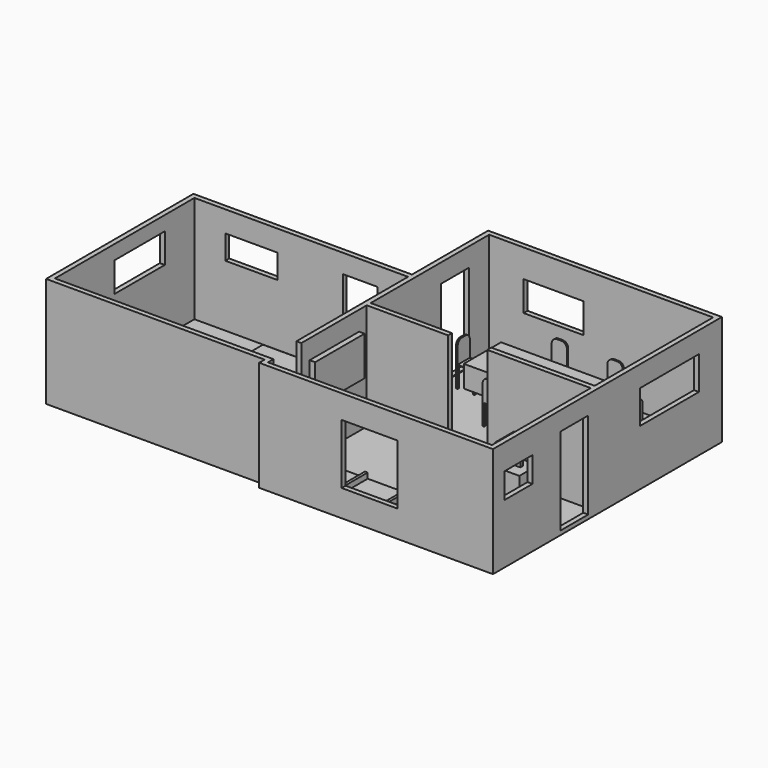
from build123d import *

# Parameters (mm, degrees)
F1_DEPTH  = 2489.2
F2_W      = 812.8
F2_H      = 2032
F3_DEPTH  = 1270
F4_W      = 812.8
F4_H      = 2032
F4_W_2    = 1213.4804725647
F4_H_2    = 561.7965459824
F5_DEPTH  = 508
F6_W      = 1393.2554125786
F6_H      = 696.6277360916
F7_DEPTH  = 508
F9_W      = 1462.075650692
F9_H      = 690.8190250397
F10_DEPTH = 381
F8_W      = 812.8
F8_H      = 2032
F8_W_2    = 818.5732364655
F8_H_2    = 591.4545059204
F12_DEPTH = 381
F13_DEPTH = 76.2
F14_W     = 622.6482391357
F14_H     = 1667.7387952805
F14_W_2   = 2921
F14_H_2   = 2032
F15_DEPTH = 381
F16_W     = 372.4322319031
F16_H     = 1191.0808086395
F17_DEPTH = 508
F18_W     = 468.5404043198
F18_H     = 132.683795929
F19_DEPTH = 398.78
F20_W     = 1713.0353748798
F20_H     = 776.2191295624
F21_DEPTH = 508
F22_W     = 1294.9361463044
F22_H     = 1397
F23_DEPTH = 254
F24_W     = 1441.2899017334
F24_H     = 915.3870344162
F25_DEPTH = 127
F26_W     = 3355.4488420486
F26_H     = 714.443203545
F27_DEPTH = 508
F28_W     = 1200.5072784424
F28_H     = 714.443203545
F28_W_2   = 961.6249372959
F28_W_3   = 558.3166263103
F29_DEPTH = 127
F30_W     = 678.846018219
F30_H     = 1569.9999300007
F31_DEPTH = 508
F32_W     = 678.846018219
F32_H     = 654.4110774994
F32_H_2   = 484.405040741
F33_DEPTH = 127
F34_W     = 559.0155124664
F34_H     = 542.2170602794
F35_DEPTH = 508
F36_W     = 160.4032516479
F36_H     = 79.8953551295
F37_DEPTH = 381
F38_W     = 559.0155124664
F38_H     = 542.2170602794
F39_DEPTH = 127
F40_W     = 385.6000900269
F40_H     = 323.2691287994
F41_DEPTH = 304.8
F42_W     = 3097.2655415535
F42_H     = 1085.2691287994
F42_W_2   = 385.6000900269
F42_H_2   = 323.2691287994
F43_DEPTH = 508
F44_W     = 385.6000900269
F44_H     = 323.2691287994
F45_DEPTH = 685.8
F46_W     = 38.1
F46_H     = 38.1
F47_DEPTH = 482.6
F48_W     = 38.1
F48_H     = 38.1
F49_DEPTH = 12.7
F50_W     = 355.6
F50_H     = 38.1
F51_DEPTH = 508
F52_R     = 127
F53_W     = 38.1
F53_H     = 38.1
F54_DEPTH = 482.6
F55_W     = 38.1
F55_H     = 38.1
F56_DEPTH = 12.7
F57_W     = 355.6
F57_H     = 38.1
F58_DEPTH = 508
F59_R     = 127
F60_W     = 38.1
F60_H     = 38.1
F61_DEPTH = 482.6
F62_W     = 38.1
F62_H     = 38.1
F63_DEPTH = 12.7
F64_W     = 355.6
F64_H     = 38.1
F65_DEPTH = 508
F66_R     = 127
F67_W     = 38.1
F67_H     = 38.1
F68_DEPTH = 482.6
F69_W     = 38.1
F69_H     = 38.1
F70_DEPTH = 12.7
F71_W     = 355.6
F71_H     = 38.1
F72_DEPTH = 508
F73_R     = 127
F74_W     = 38.1
F74_H     = 38.1
F75_DEPTH = 482.6
F76_W     = 38.1
F76_H     = 38.1
F77_DEPTH = 12.7
F78_W     = 38.1
F78_H     = 355.6
F79_DEPTH = 508
F80_R     = 127
F81_W     = 38.1
F81_H     = 38.1
F82_DEPTH = 482.6
F83_W     = 38.1
F83_H     = 38.1
F84_DEPTH = 12.7
F85_W     = 38.1
F85_H     = 355.6
F86_DEPTH = 508
F87_R     = 127
F88_W     = 1922.5920604706
F88_H     = 1101.1958122253
F88_H_2   = 973.3300209045
F89_DEPTH = 127
F90_W     = 1922.5920604706
F90_H     = 263.1766796112
F91_DEPTH = 88.9
F92_W     = 607.4527667999
F92_H     = 1198.7114548683
F92_W_2   = 692.7967071533
F93_DEPTH = 50.8
F94_DEPTH = 25.4


with BuildPart() as f1:
    # F0 (on Top) → F1 (new body)
    with BuildSketch(Plane.XY):
        Polygon((-1390.3417633057, 2667.4773847759), (-1504.6417633057, 2667.4773847759), (-1504.6417633057, 449.9281414032), (-1618.9417633057, 449.9281414032), (-6597.3417633057, 449.9281414032), (-6597.3417633057, -3842.6718585968), (-1504.6417633057, -3842.6718585968), (-1504.6417633057, -4001.8768152241), (-1390.3417633057, -4001.8768152241), (3943.6582366943, -4001.8768152241), (3943.6582366943, -3887.5768152241), (3943.6582366943, 2667.4773847759), align=None)
        Polygon((-1618.9417633057, 335.6281414032), (-1504.6417633057, 335.6281414032), (-1504.6417633057, -2915.5718585968), (-1390.3417633057, -2915.5718585968), (-1390.3417633057, -1011.0268152241), (505.2875056046, -1011.0268152241), (505.2875056046, -896.7268152241), (-1390.3417633057, -896.7268152241), (-1390.3417633057, 335.6281414032), (-1390.3417633057, 2553.1773847759), (3829.3582366943, 2553.1773847759), (3829.3582366943, -896.7268152241), (1418.6207056046, -896.7268152241), (1418.6207056046, -1011.0268152241), (3829.3582366943, -1011.0268152241), (3829.3582366943, -3887.5768152241), (-1390.3417633057, -3887.5768152241), (-1390.3417633057, -3842.6718585968), (-1390.3417633057, -3728.3718585968), (-6483.0417633057, -3728.3718585968), (-6483.0417633057, 335.6281414032), (-1886.7375156403, 335.6281414032), align=None, mode=Mode.SUBTRACT)
    extrude(amount=F1_DEPTH)

    # F2 (on face) → F3 (cut)
    with BuildSketch(Plane(origin=(-1504.6417633057, 0, 0), x_dir=(0, -1, 0), z_dir=(-1, 0, 0))):
        with Locations((-1558.7027630895, 1035.05)):
            Rectangle(F2_W, F2_H)
    extrude(amount=-F3_DEPTH, mode=Mode.SUBTRACT)

    # F4 (on face) → F5 (cut)
    with BuildSketch(Plane(origin=(0, 449.9281414032, 0), x_dir=(-1, 0, 0), z_dir=(0, 1, 0))):
        with Locations((2619.7667469025, 1035.05)):
            Rectangle(F4_W, F4_H)
        with Locations((5157.1805477142, 1714.798271656)):
            Rectangle(F4_W_2, F4_H_2)
    extrude(amount=-F5_DEPTH, mode=Mode.SUBTRACT)

    # F6 (on face) → F7 (cut)
    with BuildSketch(Plane(origin=(0, 2667.4773847759, 0), x_dir=(-1, 0, 0), z_dir=(0, 1, 0))):
        with Locations((-108.7255179882, 1491.143643856)):
            Rectangle(F6_W, F6_H)
    extrude(amount=-F7_DEPTH, mode=Mode.SUBTRACT)

    # F9 (on face) → F10 (cut)
    with BuildSketch(Plane(origin=(-6597.3417633057, 0, 0), x_dir=(0, -1, 0), z_dir=(-1, 0, 0))):
        with Locations((1258.6542665958, 1809.7838163376)):
            Rectangle(F9_W, F9_H)
    extrude(amount=-F10_DEPTH, mode=Mode.SUBTRACT)

    # F8 (on face) → F12 (cut)
    with BuildSketch(Plane.YZ.offset(3943.6582366943)):
        with Locations((-1635.3401790619, 1035.05)):
            Rectangle(F8_W, F8_H)
        with Locations((-3260.1364850998, 1603.9574146271)):
            Rectangle(F8_W_2, F8_H_2)
    extrude(amount=-F12_DEPTH, mode=Mode.SUBTRACT)

    # F11 (on face) → F13 (join)
    with BuildSketch(Plane(origin=(0, 0, 0), x_dir=(1, 0, 0), z_dir=(0, 0, -1))):
        Polygon((-1504.6417633057, 3842.6718585968), (-6597.3417633057, 3842.6718585968), (-6597.3417633057, -449.9281414032), (-1504.6417633057, -449.9281414032), (-1504.6417633057, -2667.4773847759), (3943.6582366943, -2667.4773847759), (3943.6582366943, 4001.8768152241), (-1504.6417633057, 4001.8768152241), align=None)
    extrude(amount=F13_DEPTH)

    # F14 (on face) → F15 (join)
    with BuildSketch(Plane.XY):
        with Locations((-6171.7176437378, -1984.9498867989)):
            Rectangle(F14_W, F14_H)
        with Locations((-2965.1417633057, -1256.1378803253)):
            Rectangle(F14_W_2, F14_H_2)
    extrude(amount=F15_DEPTH)

    # F16 (on face) → F17 (join)
    with BuildSketch(Plane.XY.offset(381)):
        with Locations((-6181.0872554779, -1990.3892278671)):
            Rectangle(F16_W, F16_H)
    extrude(amount=F17_DEPTH)

    # F18 (on face) → F19 (cut)
    with BuildSketch(Plane.YZ.offset(-5994.8711395264)):
        with Locations((-2351.659430027, 447.3418979645)):
            Rectangle(F18_W, F18_H)
        with Locations((-1629.1190257072, 447.3418979645)):
            Rectangle(F18_W, F18_H)
    extrude(amount=-F19_DEPTH, mode=Mode.SUBTRACT)

    # F20 (on face) → F21 (cut)
    with BuildSketch(Plane.YZ.offset(3943.6582366943)):
        with Locations((1141.752704978, 1611.3379001617)):
            Rectangle(F20_W, F20_H)
    extrude(amount=-F21_DEPTH, mode=Mode.SUBTRACT)

    # F22 (on face) → F23 (cut)
    with BuildSketch(Plane.XZ.offset(4001.8768152241)):
        with Locations((1066.2502944469, 1243.8921183348)):
            Rectangle(F22_W, F22_H)
    extrude(amount=-F23_DEPTH, mode=Mode.SUBTRACT)

    # F24 (on face) → F25 (join)
    with BuildSketch(Plane.YZ.offset(-1390.3417633057)):
        with Locations((-1954.3604850769, 1581.6138386726)):
            Rectangle(F24_W, F24_H)
    extrude(amount=F25_DEPTH)

    # F26 (on face) → F27 (join)
    with BuildSketch(Plane.XY):
        with Locations((1164.6637320518, -3530.3552134516)):
            Rectangle(F26_W, F26_H)
    extrude(amount=F27_DEPTH)

    # F28 (on face) → F29 (cut)
    with BuildSketch(Plane.XY.offset(508)):
        with Locations((1988.134513855, -3530.3552134516)):
            Rectangle(F28_W, F28_H)
        with Locations((843.5684059858, -3530.3552134516)):
            Rectangle(F28_W_2, F28_H)
        with Locations((20.0976241827, -3530.3552134516)):
            Rectangle(F28_W_3, F28_H)
    extrude(amount=-F29_DEPTH, mode=Mode.SUBTRACT)

    # F30 (on face) → F31 (join)
    with BuildSketch(Plane.XY):
        with Locations((3489.9352275848, -3102.5768502238)):
            Rectangle(F30_W, F30_H)
    extrude(amount=F31_DEPTH)

    # F32 (on face) → F33 (cut)
    with BuildSketch(Plane.XY.offset(508)):
        with Locations((3489.9352275848, -2848.7292528152)):
            Rectangle(F32_W, F32_H)
        with Locations((3489.9352275848, -3487.598657608)):
            Rectangle(F32_W, F32_H_2)
    extrude(amount=-F33_DEPTH, mode=Mode.SUBTRACT)

    # F34 (on face) → F35 (join)
    with BuildSketch(Plane.XY):
        with Locations((2320.3634023666, -1282.1353453638)):
            Rectangle(F34_W, F34_H)
    extrude(amount=F35_DEPTH)

    # F36 (on face) → F37 (join)
    with BuildSketch(Plane.XY.offset(508)):
        with Locations((2324.1074085236, -1242.1876677991)):
            Rectangle(F36_W, F36_H)
    extrude(amount=F37_DEPTH)

    # F38 (on face) → F39 (join)
    with BuildSketch(Plane.XY.offset(889)):
        with Locations((2320.3634023666, -1282.1353453638)):
            Rectangle(F38_W, F38_H)
    extrude(amount=F39_DEPTH)

    # F40 (on face) → F41 (join)
    with BuildSketch(Plane.XY):
        with Locations((947.8398561478, 1349.6069908142)):
            Rectangle(F40_W, F40_H)
    extrude(amount=F41_DEPTH)

    # F46 (on face) → F47 (join)
    with BuildSketch(Plane.XY):
        with Locations((259.8658800125, 737.1224264145)):
            Rectangle(F46_W, F46_H)
        with Locations((577.3658800125, 737.1224264145)):
            Rectangle(F46_W, F46_H)
        with Locations((259.8658800125, 343.4224264145)):
            Rectangle(F46_W, F46_H)
        with Locations((577.3658800125, 343.4224264145)):
            Rectangle(F46_W, F46_H)
    extrude(amount=F47_DEPTH)

    # F48 (on face) → F49 (join)
    with BuildSketch(Plane.XY.offset(482.6)):
        with Locations((259.8658800125, 737.1224264145)):
            Rectangle(F48_W, F48_H)
        Polygon((278.9158800125, 718.0724264145), (240.8158800125, 718.0724264145), (240.8158800125, 324.3724264145), (558.3158800125, 324.3724264145), (558.3158800125, 362.4724264145), (596.4158800125, 362.4724264145), (596.4158800125, 756.1724264145), (278.9158800125, 756.1724264145), align=None)
        with Locations((577.3658800125, 343.4224264145)):
            Rectangle(F48_W, F48_H)
    extrude(amount=F49_DEPTH)

    # F50 (on face) → F51 (join)
    with BuildSketch(Plane.XY.offset(495.3)):
        with Locations((418.6158800125, 343.4224264145)):
            Rectangle(F50_W, F50_H)
    extrude(amount=F51_DEPTH)

    # F52
    f52_edges = [f1.edges().sort_by_distance(p)[0] for p in [
        (240.81588, 343.422426, 1003.3),
        (596.41588, 343.422426, 1003.3),
    ]]
    fillet(f52_edges, radius=F52_R)

    # F53 (on face) → F54 (join)
    with BuildSketch(Plane.XY):
        with Locations((1559.7592571259, 343.4224264145)):
            Rectangle(F53_W, F53_H)
        with Locations((1877.2592571259, 343.4224264145)):
            Rectangle(F53_W, F53_H)
        with Locations((1877.2592571259, 737.1224264145)):
            Rectangle(F53_W, F53_H)
        with Locations((1559.7592571259, 737.1224264145)):
            Rectangle(F53_W, F53_H)
    extrude(amount=F54_DEPTH)

    # F55 (on face) → F56 (join)
    with BuildSketch(Plane.XY.offset(482.6)):
        with Locations((1559.7592571259, 737.1224264145)):
            Rectangle(F55_W, F55_H)
        Polygon((1578.8092571259, 718.0724264145), (1540.7092571259, 718.0724264145), (1540.7092571259, 324.3724264145), (1858.2092571259, 324.3724264145), (1858.2092571259, 362.4724264145), (1896.3092571259, 362.4724264145), (1896.3092571259, 756.1724264145), (1578.8092571259, 756.1724264145), align=None)
        with Locations((1877.2592571259, 343.4224264145)):
            Rectangle(F55_W, F55_H)
    extrude(amount=F56_DEPTH)

    # F57 (on face) → F58 (join)
    with BuildSketch(Plane.XY.offset(495.3)):
        with Locations((1718.5092571259, 343.4224264145)):
            Rectangle(F57_W, F57_H)
    extrude(amount=F58_DEPTH)

    # F59
    f59_edges = [f1.edges().sort_by_distance(p)[0] for p in [
        (1540.709257, 343.422426, 1003.3),
        (1896.309257, 343.422426, 1003.3),
    ]]
    fillet(f59_edges, radius=F59_R)

    # F60 (on face) → F61 (join)
    with BuildSketch(Plane.XY):
        with Locations((1559.7592571259, 2355.7915552139)):
            Rectangle(F60_W, F60_H)
        with Locations((1559.7592571259, 1962.0915552139)):
            Rectangle(F60_W, F60_H)
        with Locations((1877.2592571259, 1962.0915552139)):
            Rectangle(F60_W, F60_H)
        with Locations((1877.2592571259, 2355.7915552139)):
            Rectangle(F60_W, F60_H)
    extrude(amount=F61_DEPTH)

    # F62 (on face) → F63 (join)
    with BuildSketch(Plane.XY.offset(482.6)):
        Polygon((1578.8092571259, 2336.7415552139), (1540.7092571259, 2336.7415552139), (1540.7092571259, 1943.0415552139), (1858.2092571259, 1943.0415552139), (1858.2092571259, 1981.1415552139), (1896.3092571259, 1981.1415552139), (1896.3092571259, 2374.8415552139), (1578.8092571259, 2374.8415552139), align=None)
        with Locations((1877.2592571259, 1962.0915552139)):
            Rectangle(F62_W, F62_H)
        with Locations((1559.7592571259, 2355.7915552139)):
            Rectangle(F62_W, F62_H)
    extrude(amount=F63_DEPTH)

    # F64 (on face) → F65 (join)
    with BuildSketch(Plane.XY.offset(495.3)):
        with Locations((1718.5092571259, 2355.7915552139)):
            Rectangle(F64_W, F64_H)
    extrude(amount=F65_DEPTH)

    # F66
    f66_edges = [f1.edges().sort_by_distance(p)[0] for p in [
        (1540.709257, 2355.791555, 1003.3),
        (1896.309257, 2355.791555, 1003.3),
    ]]
    fillet(f66_edges, radius=F66_R)

    # F67 (on face) → F68 (join)
    with BuildSketch(Plane.XY):
        with Locations((259.8658800125, 2355.7915552139)):
            Rectangle(F67_W, F67_H)
        with Locations((577.3658800125, 2355.7915552139)):
            Rectangle(F67_W, F67_H)
        with Locations((259.8658800125, 1962.0915552139)):
            Rectangle(F67_W, F67_H)
        with Locations((577.3658800125, 1962.0915552139)):
            Rectangle(F67_W, F67_H)
    extrude(amount=F68_DEPTH)

    # F69 (on face) → F70 (join)
    with BuildSketch(Plane.XY.offset(482.6)):
        with Locations((259.8658800125, 2355.7915552139)):
            Rectangle(F69_W, F69_H)
        Polygon((278.9158800125, 2336.7415552139), (240.8158800125, 2336.7415552139), (240.8158800125, 1943.0415552139), (558.3158800125, 1943.0415552139), (558.3158800125, 1981.1415552139), (596.4158800125, 1981.1415552139), (596.4158800125, 2374.8415552139), (278.9158800125, 2374.8415552139), align=None)
        with Locations((577.3658800125, 1962.0915552139)):
            Rectangle(F69_W, F69_H)
    extrude(amount=F70_DEPTH)

    # F71 (on face) → F72 (join)
    with BuildSketch(Plane.XY.offset(495.3)):
        with Locations((418.6158800125, 2355.7915552139)):
            Rectangle(F71_W, F71_H)
    extrude(amount=F72_DEPTH)

    # F73
    f73_edges = [f1.edges().sort_by_distance(p)[0] for p in [
        (240.81588, 2355.791555, 1003.3),
        (596.41588, 2355.791555, 1003.3),
    ]]
    fillet(f73_edges, radius=F73_R)

    # F74 (on face) → F75 (join)
    with BuildSketch(Plane.XY):
        with Locations((-1047.074286747, 1203.0104372025)):
            Rectangle(F74_W, F74_H)
        with Locations((-1047.074286747, 1520.5104372025)):
            Rectangle(F74_W, F74_H)
        with Locations((-653.374286747, 1520.5104372025)):
            Rectangle(F74_W, F74_H)
        with Locations((-653.374286747, 1203.0104372025)):
            Rectangle(F74_W, F74_H)
    extrude(amount=F75_DEPTH)

    # F76 (on face) → F77 (join)
    with BuildSketch(Plane.XY.offset(482.6)):
        with Locations((-1047.074286747, 1203.0104372025)):
            Rectangle(F76_W, F76_H)
        Polygon((-1066.124286747, 1222.0604372025), (-1028.024286747, 1222.0604372025), (-1028.024286747, 1183.9604372025), (-634.324286747, 1183.9604372025), (-634.324286747, 1501.4604372025), (-672.424286747, 1501.4604372025), (-672.424286747, 1539.5604372025), (-1066.124286747, 1539.5604372025), align=None)
        with Locations((-653.374286747, 1520.5104372025)):
            Rectangle(F76_W, F76_H)
    extrude(amount=F77_DEPTH)

    # F78 (on face) → F79 (join)
    with BuildSketch(Plane.XY.offset(495.3)):
        with Locations((-1047.074286747, 1361.7604372025)):
            Rectangle(F78_W, F78_H)
    extrude(amount=F79_DEPTH)

    # F80
    f80_edges = [f1.edges().sort_by_distance(p)[0] for p in [
        (-1047.074287, 1183.960437, 1003.3),
        (-1047.074287, 1539.560437, 1003.3),
    ]]
    fillet(f80_edges, radius=F80_R)

    # F81 (on face) → F82 (join)
    with BuildSketch(Plane.XY):
        with Locations((2977.2912548065, 1520.5104372025)):
            Rectangle(F81_W, F81_H)
        with Locations((2977.2912548065, 1203.0104372025)):
            Rectangle(F81_W, F81_H)
        with Locations((2583.5912548065, 1203.0104372025)):
            Rectangle(F81_W, F81_H)
        with Locations((2583.5912548065, 1520.5104372025)):
            Rectangle(F81_W, F81_H)
    extrude(amount=F82_DEPTH)

    # F83 (on face) → F84 (join)
    with BuildSketch(Plane.XY.offset(482.6)):
        Polygon((2958.2412548065, 1501.4604372025), (2958.2412548065, 1539.5604372025), (2564.5412548065, 1539.5604372025), (2564.5412548065, 1222.0604372025), (2602.6412548065, 1222.0604372025), (2602.6412548065, 1183.9604372025), (2996.3412548065, 1183.9604372025), (2996.3412548065, 1501.4604372025), align=None)
        with Locations((2977.2912548065, 1520.5104372025)):
            Rectangle(F83_W, F83_H)
        with Locations((2583.5912548065, 1203.0104372025)):
            Rectangle(F83_W, F83_H)
    extrude(amount=F84_DEPTH)

    # F85 (on face) → F86 (join)
    with BuildSketch(Plane.XY.offset(495.3)):
        with Locations((2977.2912548065, 1361.7604372025)):
            Rectangle(F85_W, F85_H)
    extrude(amount=F86_DEPTH)

    # F87
    f87_edges = [f1.edges().sort_by_distance(p)[0] for p in [
        (2977.291255, 1539.560437, 1003.3),
        (2977.291255, 1183.960437, 1003.3),
    ]]
    fillet(f87_edges, radius=F87_R)

    # F88 (on face) → F89 (join)
    with BuildSketch(Plane(origin=(0, -896.7268152241, 0), x_dir=(-1, 0, 0), z_dir=(0, 1, 0))):
        with Locations((-2868.062206459, 550.5979061127)):
            Rectangle(F88_W, F88_H)
        with Locations((-2868.062206459, 1587.8608226776)):
            Rectangle(F88_W, F88_H_2)
    extrude(amount=F89_DEPTH)

    # F90 (on face) → F91 (join)
    with BuildSketch(Plane(origin=(0, -769.7268152241, 0), x_dir=(-1, 0, 0), z_dir=(0, 1, 0))):
        with Locations((-2868.062206459, 744.226038456)):
            Rectangle(F90_W, F90_H)
    extrude(amount=F91_DEPTH)

    # F92 (on face) → F93 (join)
    with BuildSketch(Plane(origin=(0, -769.7268152241, 0), x_dir=(-1, 0, 0), z_dir=(0, 1, 0))):
        with Locations((-3525.6318532944, 1475.1701056957)):
            Rectangle(F92_W, F92_H)
        with Locations((-2831.8395614624, 1475.1701056957)):
            Rectangle(F92_W_2, F92_H)
        Polygon((-1906.7661762238, 2074.5258331299), (-2408.2612991333, 2074.5258331299), (-2439.465045929, 2074.5258331299), (-2439.465045929, 875.8143782616), (-2408.2612991333, 875.8143782616), (-1906.7661762238, 875.8143782616), align=None)
    extrude(amount=F93_DEPTH)

    # F92 (on face) → F94 (join)
    with BuildSketch(Plane(origin=(0, -769.7268152241, 0), x_dir=(-1, 0, 0), z_dir=(0, 1, 0))):
        with Locations((-3525.6318532944, 1475.1701056957)):
            Rectangle(F92_W, F92_H)
        with Locations((-2831.8395614624, 1475.1701056957)):
            Rectangle(F92_W_2, F92_H)
        Polygon((-1906.7661762238, 2074.5258331299), (-2408.2612991333, 2074.5258331299), (-2439.465045929, 2074.5258331299), (-2439.465045929, 875.8143782616), (-2408.2612991333, 875.8143782616), (-1906.7661762238, 875.8143782616), align=None)
    extrude(amount=F94_DEPTH)


with BuildPart() as f43:
    # F42 (on face) → F43 (new body)
    with BuildSketch(Plane.XY.offset(304.8)):
        with Locations((965.1084840298, 1349.6069908142)):
            Rectangle(F42_W, F42_H)
        with Locations((947.8398561478, 1349.6069908142)):
            Rectangle(F42_W_2, F42_H_2, mode=Mode.SUBTRACT)
    extrude(amount=F43_DEPTH)


with BuildPart() as f45:
    # F44 (on face) → F45 (new body)
    with BuildSketch(Plane.XY.offset(812.8)):
        with Locations((947.8398561478, 1349.6069908142)):
            Rectangle(F44_W, F44_H)
    extrude(amount=-F45_DEPTH)


solid = Compound([f1.part, f43.part, f45.part])
